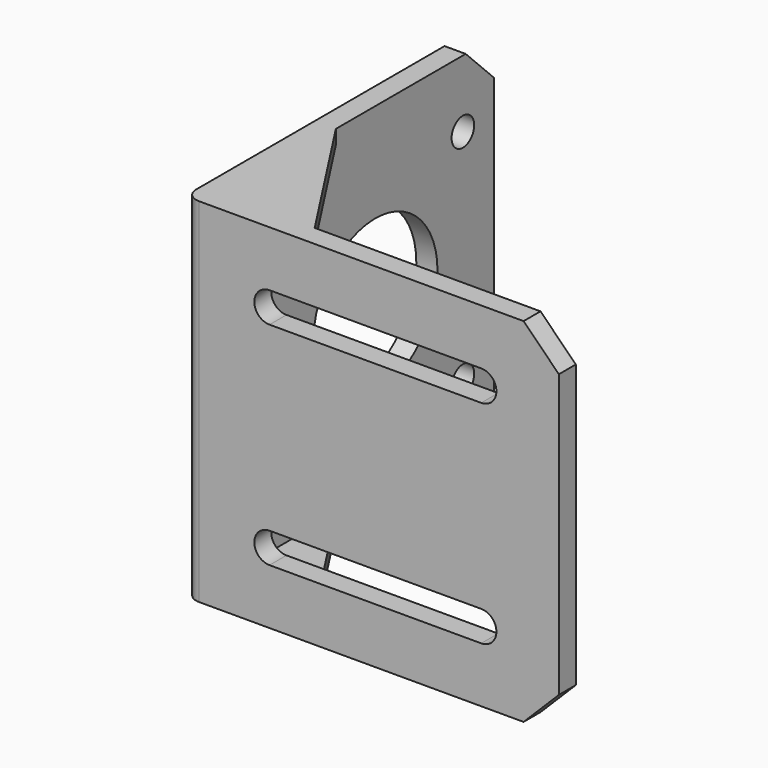
from build123d import *

# Parameters (mm, degrees)
PAD_DEPTH       = 50
SKETCH001_R     = 11
SKETCH001_R_2   = 2
POCKET_DEPTH    = 3
POCKET001_DEPTH = 3
CHAMFER_SIZE    = 5
FILLET_R        = 2
PAD001_DEPTH    = 2
PAD002_DEPTH    = 2


with BuildPart() as part:
    # Sketch → Pad (new body)
    with BuildSketch(Plane.XY):
        Polygon((-28, 24), (-25, 24), (-25, -24), (25, -24), (25, -27), (-28, -27), align=None)
    extrude(amount=PAD_DEPTH)

    # Sketch001 (on Face2 of Pad) → Pocket (cut)
    with BuildSketch(Plane.YZ.offset(-25)):
        with Locations((3, 25)):
            Circle(SKETCH001_R)
        with Locations((-12.5, 40.5)):
            Circle(SKETCH001_R_2)
        with Locations((18.5, 40.5)):
            Circle(SKETCH001_R_2)
        with Locations((-12.5, 9.5)):
            Circle(SKETCH001_R_2)
        with Locations((18.5, 9.5)):
            Circle(SKETCH001_R_2)
    extrude(amount=-POCKET_DEPTH, mode=Mode.SUBTRACT)

    # Sketch002 (on Face12 of Pocket) → Pocket001 (cut)
    with BuildSketch(Plane(origin=(0, -24, 0), x_dir=(-1, 0, 0), z_dir=(0, 1, 0))):
        with BuildLine():
            ThreePointArc((-14, 42.15), (-16.15, 40), (-14, 37.85))
            Line((-14, 37.85), (16, 37.85))
            ThreePointArc((16, 37.85), (18.15, 40), (16, 42.15))
            Line((-14, 42.15), (16, 42.15))
        make_face()
        with BuildLine():
            ThreePointArc((-14, 12.15), (-16.15, 10), (-14, 7.85))
            Line((-14, 7.85), (16, 7.85))
            ThreePointArc((16, 7.85), (18.15, 10), (16, 12.15))
            Line((-14, 12.15), (16, 12.15))
        make_face()
    extrude(amount=-POCKET001_DEPTH, mode=Mode.SUBTRACT)

    # Chamfer
    chamfer_edges = [part.edges().sort_by_distance(p)[0] for p in [
        (-26.5, 24, 0),
        (25, -25.5, 0),
        (-26.5, 24, 50),
        (25, -25.5, 50),
    ]]
    chamfer(chamfer_edges, length=CHAMFER_SIZE)

    # Fillet
    fillet_edges = [part.edges().sort_by_distance(p)[0] for p in [
        (-28, -27, 25),
    ]]
    fillet(fillet_edges, radius=FILLET_R)

    # Sketch003 (on Face5 of Fillet) → Pad001 (join)
    with BuildSketch(Plane.XY.offset(50)):
        Polygon((-25, -24), (-12, -24), (-25, -4), align=None)
    extrude(amount=-PAD001_DEPTH)

    # Sketch004 (on Face2 of Pad001) → Pad002 (join)
    with BuildSketch(Plane(origin=(0, 0, 0), x_dir=(1, 0, 0), z_dir=(0, 0, -1))):
        Polygon((-25, 24), (-12, 24), (-25, 4), align=None)
    extrude(amount=-PAD002_DEPTH)


solid = part.part
